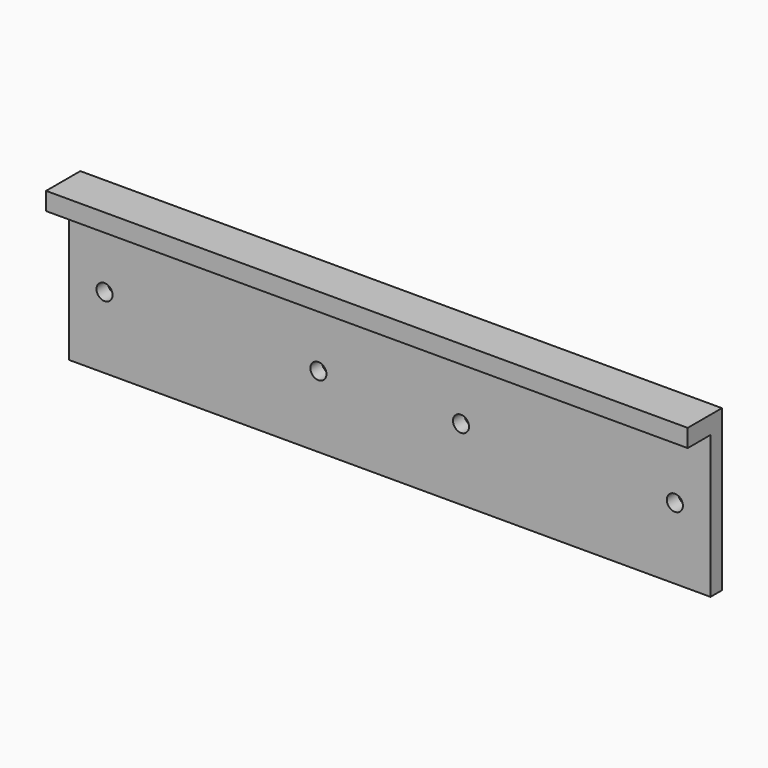
from build123d import *

# Parameters (mm, degrees)
F0_W     = 180
F0_H     = 45
F0_R     = 2.25
F1_DEPTH = 4
F2_W     = 180
F2_H     = 5
F3_DEPTH = 8


with BuildPart() as f1:
    # F0 (on Front) → F1 (new body)
    with BuildSketch(Plane.XZ):
        with Locations((0, 2.5)):
            Rectangle(F0_W, F0_H)
        with Locations((-80, 0)):
            Circle(F0_R, mode=Mode.SUBTRACT)
        with Locations((-20, 0)):
            Circle(F0_R, mode=Mode.SUBTRACT)
        with Locations((20, 0)):
            Circle(F0_R, mode=Mode.SUBTRACT)
        with Locations((80, 0)):
            Circle(F0_R, mode=Mode.SUBTRACT)
    extrude(amount=F1_DEPTH)

    # F2 (on face) → F3 (join)
    with BuildSketch(Plane.XZ.offset(4)):
        with Locations((0, 22.5)):
            Rectangle(F2_W, F2_H)
    extrude(amount=F3_DEPTH)


solid = f1.part
